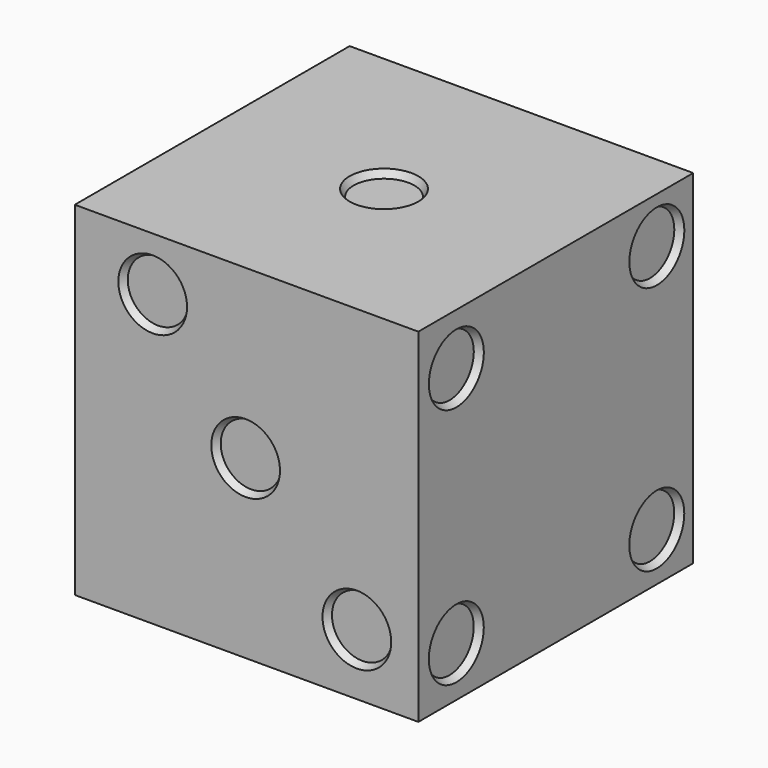
from build123d import *

# Parameters (mm, degrees)
F0_W     = 25.4
F0_H     = 25.4
F1_DEPTH = 25.4
F2_R     = 2.54
F3_DEPTH = 0.508
F3_TAPER = 30
F4_R     = 2.54
F5_DEPTH = 0.508
F5_TAPER = 30
F6_R     = 2.54
F7_DEPTH = 0.508
F7_TAPER = 30


with BuildPart() as f1:
    # F0 (on Top) → F1 (new body)
    with BuildSketch(Plane.XY):
        Rectangle(F0_W, F0_H)
    extrude(amount=F1_DEPTH)

    # F2 (on face) → F3 (cut)
    with BuildSketch(Plane.XY.offset(25.4)):
        Circle(F2_R)
    extrude(amount=-F3_DEPTH, taper=F3_TAPER, mode=Mode.SUBTRACT)

    # F4 (on face) → F5 (cut)
    with BuildSketch(Plane.XZ.offset(12.7)):
        with Locations((-6.9411581597, 21.445404164)):
            Circle(F4_R)
        with Locations((-0.069737803, 13.023638883)):
            Circle(F4_R)
        with Locations((8.1521372762, 4.5340581903)):
            Circle(F4_R)
    extrude(amount=-F5_DEPTH, taper=F5_TAPER, mode=Mode.SUBTRACT)

    # F6 (on face) → F7 (cut)
    with BuildSketch(Plane.YZ.offset(12.7)):
        with Locations((-9.188728149, 21.5874935842)):
            Circle(F6_R)
        with Locations((9.3399413093, 22.001354984)):
            Circle(F6_R)
        with Locations((9.3340705111, 3.5717650137)):
            Circle(F6_R)
        with Locations((-9.1927518238, 3.6942041952)):
            Circle(F6_R)
    extrude(amount=-F7_DEPTH, taper=F7_TAPER, mode=Mode.SUBTRACT)


solid = f1.part
